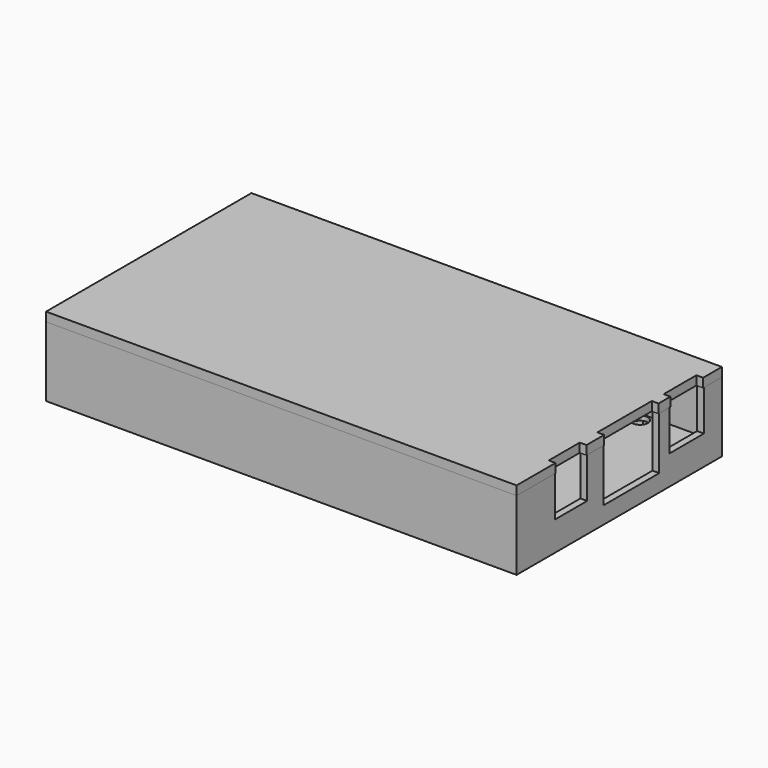
from build123d import *

# Parameters (mm, degrees)
F0_W     = 16
F0_H     = 16
F0_W_2   = 22
F0_H_2   = 1
F0_R     = 1.75
F1_DEPTH = 1
F2_DEPTH = 2
F0_W_3   = 1.5
F0_H_3   = 3.5
F0_H_4   = 2.9
F0_H_5   = 4.5
F3_DEPTH = 13
F0_H_6   = 9.5
F0_H_7   = 9
F4_DEPTH = 4
F0_H_8   = 3
F0_H_9   = 8
F5_DEPTH = 1.3
F6_DEPTH = 2.5
F8_DEPTH = 2


with BuildPart() as f1:
    # F0 (on Top) → F1 (new body)
    with BuildSketch(Plane.XY):
        Polygon((51.2338503599, 14.5706428699), (51.2338503599, 18.0706428699), (39.8364565174, 18.0706428699), (40.9911570558, 16.0706428699), (39.1725037079, 12.9206428699), (35.535197012, 12.9206428699), (33.716543664, 16.0706428699), (34.8712442024, 18.0706428699), (-44.0535434826, 18.0706428699), (-42.8988429442, 16.0706428699), (-44.7174962921, 12.9206428699), (-48.354802988, 12.9206428699), (-50.173456336, 16.0706428699), (-49.0187557976, 18.0706428699), (-50.2661496401, 18.0706428699), (-50.2661496401, -35.9293571301), (-42.7487557976, -35.9293571301), (-43.903456336, -33.9293571301), (-42.084802988, -30.7793571301), (-38.4474962921, -30.7793571301), (-36.6288429442, -33.9293571301), (32.596543664, -33.9293571301), (34.415197012, -30.7793571301), (38.0525037079, -30.7793571301), (39.8711570558, -33.9293571301), (51.2338503599, -33.9293571301), (51.2338503599, -26.8293571301), (51.2338503599, -17.8293571301), (51.2338503599, -13.3293571301), (51.2338503599, -8.8293571301), (51.2338503599, -0.8293571301), (51.2338503599, 2.1706428699), (51.2338503599, 5.0706428699), align=None)
        with Locations((22.7338503599, -17.6293571301)):
            Rectangle(F0_W, F0_H, mode=Mode.SUBTRACT)
        Polygon((46.9291284567, -29.4293571301), (-42.2661496401, -29.4293571301), (-42.2661496401, 10.5706428699), (0.9291284567, 10.5706428699), (0.9291284567, 9.5706428699), (-41.2661496401, 9.5706428699), (-41.2661496401, -28.4293571301), (46.9291284567, -28.4293571301), align=None, mode=Mode.SUBTRACT)
        with Locations((16.9291283151, 10.0706428699)):
            Rectangle(F0_W_2, F0_H_2, mode=Mode.SUBTRACT)
        Polygon((-42.8988429442, 16.0706428699), (-44.0535434826, 18.0706428699), (-49.0187557976, 18.0706428699), (-50.173456336, 16.0706428699), (-48.354802988, 12.9206428699), (-44.7174962921, 12.9206428699), align=None)
        with Locations((-46.5361496401, 16.0706428699)):
            Circle(F0_R, mode=Mode.SUBTRACT)
        Polygon((40.9911570558, 16.0706428699), (39.8364565174, 18.0706428699), (34.8712442024, 18.0706428699), (33.716543664, 16.0706428699), (35.535197012, 12.9206428699), (39.1725037079, 12.9206428699), align=None)
        with Locations((37.3538503599, 16.0706428699)):
            Circle(F0_R, mode=Mode.SUBTRACT)
        with BuildLine():
            Line((38.7164565174, -35.9293571301), (39.8711570558, -33.9293571301))
            Line((39.8711570558, -33.9293571301), (37.9838503599, -33.9293571301))
            ThreePointArc((37.9838503599, -33.9293571301), (36.2338503599, -35.6793571301), (34.4838503599, -33.9293571301))
            Line((34.4838503599, -33.9293571301), (32.596543664, -33.9293571301))
            Line((32.596543664, -33.9293571301), (33.7512442024, -35.9293571301))
            Line((33.7512442024, -35.9293571301), (38.7164565174, -35.9293571301))
        make_face()
        with BuildLine():
            Line((37.9838503599, -33.9293571301), (39.8711570558, -33.9293571301))
            Line((39.8711570558, -33.9293571301), (38.0525037079, -30.7793571301))
            Line((38.0525037079, -30.7793571301), (34.415197012, -30.7793571301))
            Line((34.415197012, -30.7793571301), (32.596543664, -33.9293571301))
            Line((32.596543664, -33.9293571301), (34.4838503599, -33.9293571301))
            ThreePointArc((34.4838503599, -33.9293571301), (36.2338503599, -32.1793571301), (37.9838503599, -33.9293571301))
        make_face()
        with BuildLine():
            Line((-42.7487557976, -35.9293571301), (-37.7835434826, -35.9293571301))
            Line((-37.7835434826, -35.9293571301), (-36.6288429442, -33.9293571301))
            Line((-36.6288429442, -33.9293571301), (-38.5161496401, -33.9293571301))
            ThreePointArc((-38.5161496401, -33.9293571301), (-40.2661496401, -35.6793571301), (-42.0161496401, -33.9293571301))
            Line((-42.0161496401, -33.9293571301), (-43.903456336, -33.9293571301))
            Line((-43.903456336, -33.9293571301), (-42.7487557976, -35.9293571301))
        make_face()
        with BuildLine():
            Line((-38.5161496401, -33.9293571301), (-36.6288429442, -33.9293571301))
            Line((-36.6288429442, -33.9293571301), (-38.4474962921, -30.7793571301))
            Line((-38.4474962921, -30.7793571301), (-42.084802988, -30.7793571301))
            Line((-42.084802988, -30.7793571301), (-43.903456336, -33.9293571301))
            Line((-43.903456336, -33.9293571301), (-42.0161496401, -33.9293571301))
            ThreePointArc((-42.0161496401, -33.9293571301), (-40.2661496401, -32.1793571301), (-38.5161496401, -33.9293571301))
        make_face()
        Polygon((51.2338503599, 14.5706428699), (51.2338503599, 18.0706428699), (39.8364565174, 18.0706428699), (40.9911570558, 16.0706428699), (39.1725037079, 12.9206428699), (35.535197012, 12.9206428699), (33.716543664, 16.0706428699), (34.8712442024, 18.0706428699), (-44.0535434826, 18.0706428699), (-42.8988429442, 16.0706428699), (-44.7174962921, 12.9206428699), (-48.354802988, 12.9206428699), (-50.173456336, 16.0706428699), (-49.0187557976, 18.0706428699), (-50.2661496401, 18.0706428699), (-50.2661496401, -35.9293571301), (-42.7487557976, -35.9293571301), (-43.903456336, -33.9293571301), (-42.084802988, -30.7793571301), (-38.4474962921, -30.7793571301), (-36.6288429442, -33.9293571301), (32.596543664, -33.9293571301), (34.415197012, -30.7793571301), (38.0525037079, -30.7793571301), (39.8711570558, -33.9293571301), (51.2338503599, -33.9293571301), (51.2338503599, -26.8293571301), (51.2338503599, -17.8293571301), (51.2338503599, -13.3293571301), (51.2338503599, -8.8293571301), (51.2338503599, -0.8293571301), (51.2338503599, 2.1706428699), (51.2338503599, 5.0706428699), align=None)
        with Locations((22.7338503599, -17.6293571301)):
            Rectangle(F0_W, F0_H, mode=Mode.SUBTRACT)
        Polygon((46.9291284567, -29.4293571301), (-42.2661496401, -29.4293571301), (-42.2661496401, 10.5706428699), (0.9291284567, 10.5706428699), (0.9291284567, 9.5706428699), (-41.2661496401, 9.5706428699), (-41.2661496401, -28.4293571301), (46.9291284567, -28.4293571301), align=None, mode=Mode.SUBTRACT)
        with Locations((16.9291283151, 10.0706428699)):
            Rectangle(F0_W_2, F0_H_2, mode=Mode.SUBTRACT)
        Polygon((-37.7835434826, -35.9293571301), (33.7512442024, -35.9293571301), (32.596543664, -33.9293571301), (-36.6288429442, -33.9293571301), align=None)
        Polygon((51.2338503599, -35.9293571301), (51.2338503599, -33.9293571301), (39.8711570558, -33.9293571301), (38.7164565174, -35.9293571301), align=None)
    extrude(amount=F1_DEPTH)

    # F0 (on Top) → F2 (join)
    with BuildSketch(Plane.XY):
        Polygon((-42.2661496401, 10.5706428699), (-42.2661496401, -29.4293571301), (46.9291284567, -29.4293571301), (46.9291284567, -28.4293571301), (-41.2661496401, -28.4293571301), (-41.2661496401, 9.5706428699), (0.9291284567, 9.5706428699), (0.9291284567, 10.5706428699), align=None)
        with Locations((16.9291283151, 10.0706428699)):
            Rectangle(F0_W_2, F0_H_2)
    extrude(amount=F2_DEPTH)

    # F0 (on Top) → F3 (join)
    with BuildSketch(Plane.XY):
        Polygon((52.7338503599, 19.5706428699), (-51.7661496401, 19.5706428699), (-51.7661496401, -37.4293571301), (52.7338503599, -37.4293571301), (52.7338503599, -26.8293571301), (51.2338503599, -26.8293571301), (51.2338503599, -33.9293571301), (51.2338503599, -35.9293571301), (38.7164565174, -35.9293571301), (38.0525037079, -37.0793571301), (34.415197012, -37.0793571301), (33.7512442024, -35.9293571301), (-37.7835434826, -35.9293571301), (-38.4474962921, -37.0793571301), (-42.084802988, -37.0793571301), (-42.7487557976, -35.9293571301), (-50.2661496401, -35.9293571301), (-50.2661496401, 18.0706428699), (-49.0187557976, 18.0706428699), (-48.354802988, 19.2206428699), (-44.7174962921, 19.2206428699), (-44.0535434826, 18.0706428699), (34.8712442024, 18.0706428699), (35.535197012, 19.2206428699), (39.1725037079, 19.2206428699), (39.8364565174, 18.0706428699), (51.2338503599, 18.0706428699), (52.7338503599, 18.0706428699), align=None)
        with Locations((51.9838503599, 16.3206428699)):
            Rectangle(F0_W_3, F0_H_3)
        with Locations((51.9838503599, 3.6206428699)):
            Rectangle(F0_W_3, F0_H_4)
        with Locations((51.9838503599, -15.5793571301)):
            Rectangle(F0_W_3, F0_H_5)
        Polygon((38.0525037079, -37.0793571301), (38.7164565174, -35.9293571301), (33.7512442024, -35.9293571301), (34.415197012, -37.0793571301), align=None)
        Polygon((-38.4474962921, -37.0793571301), (-37.7835434826, -35.9293571301), (-42.7487557976, -35.9293571301), (-42.084802988, -37.0793571301), align=None)
        Polygon((34.8712442024, 18.0706428699), (39.8364565174, 18.0706428699), (39.1725037079, 19.2206428699), (35.535197012, 19.2206428699), align=None)
        Polygon((-49.0187557976, 18.0706428699), (-44.0535434826, 18.0706428699), (-44.7174962921, 19.2206428699), (-48.354802988, 19.2206428699), align=None)
    extrude(amount=F3_DEPTH)

    # F0 (on Top) → F4 (join)
    with BuildSketch(Plane.XY):
        with Locations((51.9838503599, 9.8206428699)):
            Rectangle(F0_W_3, F0_H_6)
        with Locations((51.9838503599, -22.3293571301)):
            Rectangle(F0_W_3, F0_H_7)
    extrude(amount=F4_DEPTH)

    # F0 (on Top) → F5 (join)
    with BuildSketch(Plane.XY):
        with Locations((51.9838503599, 0.6706428699)):
            Rectangle(F0_W_3, F0_H_8)
        with Locations((51.9838503599, -4.8293571301)):
            Rectangle(F0_W_3, F0_H_9)
        with Locations((51.9838503599, -11.0793571301)):
            Rectangle(F0_W_3, F0_H_5)
    extrude(amount=F5_DEPTH)

    # F0 (on Top) → F6 (join)
    with BuildSketch(Plane.XY):
        Polygon((52.7338503599, 19.5706428699), (-51.7661496401, 19.5706428699), (-51.7661496401, -37.4293571301), (52.7338503599, -37.4293571301), (52.7338503599, -26.8293571301), (51.2338503599, -26.8293571301), (51.2338503599, -33.9293571301), (51.2338503599, -35.9293571301), (38.7164565174, -35.9293571301), (38.0525037079, -37.0793571301), (34.415197012, -37.0793571301), (33.7512442024, -35.9293571301), (-37.7835434826, -35.9293571301), (-38.4474962921, -37.0793571301), (-42.084802988, -37.0793571301), (-42.7487557976, -35.9293571301), (-50.2661496401, -35.9293571301), (-50.2661496401, 18.0706428699), (-49.0187557976, 18.0706428699), (-48.354802988, 19.2206428699), (-44.7174962921, 19.2206428699), (-44.0535434826, 18.0706428699), (34.8712442024, 18.0706428699), (35.535197012, 19.2206428699), (39.1725037079, 19.2206428699), (39.8364565174, 18.0706428699), (51.2338503599, 18.0706428699), (52.7338503599, 18.0706428699), align=None)
        with Locations((51.9838503599, 16.3206428699)):
            Rectangle(F0_W_3, F0_H_3)
        with Locations((51.9838503599, 9.8206428699)):
            Rectangle(F0_W_3, F0_H_6)
        with Locations((51.9838503599, 3.6206428699)):
            Rectangle(F0_W_3, F0_H_4)
        with Locations((51.9838503599, 0.6706428699)):
            Rectangle(F0_W_3, F0_H_8)
        with Locations((51.9838503599, -4.8293571301)):
            Rectangle(F0_W_3, F0_H_9)
        with Locations((51.9838503599, -11.0793571301)):
            Rectangle(F0_W_3, F0_H_5)
        with Locations((51.9838503599, -15.5793571301)):
            Rectangle(F0_W_3, F0_H_5)
        with Locations((51.9838503599, -22.3293571301)):
            Rectangle(F0_W_3, F0_H_7)
        Polygon((51.2338503599, -35.9293571301), (51.2338503599, -33.9293571301), (39.8711570558, -33.9293571301), (38.7164565174, -35.9293571301), align=None)
        Polygon((-37.7835434826, -35.9293571301), (33.7512442024, -35.9293571301), (32.596543664, -33.9293571301), (-36.6288429442, -33.9293571301), align=None)
        Polygon((51.2338503599, 14.5706428699), (51.2338503599, 18.0706428699), (39.8364565174, 18.0706428699), (40.9911570558, 16.0706428699), (39.1725037079, 12.9206428699), (35.535197012, 12.9206428699), (33.716543664, 16.0706428699), (34.8712442024, 18.0706428699), (-44.0535434826, 18.0706428699), (-42.8988429442, 16.0706428699), (-44.7174962921, 12.9206428699), (-48.354802988, 12.9206428699), (-50.173456336, 16.0706428699), (-49.0187557976, 18.0706428699), (-50.2661496401, 18.0706428699), (-50.2661496401, -35.9293571301), (-42.7487557976, -35.9293571301), (-43.903456336, -33.9293571301), (-42.084802988, -30.7793571301), (-38.4474962921, -30.7793571301), (-36.6288429442, -33.9293571301), (32.596543664, -33.9293571301), (34.415197012, -30.7793571301), (38.0525037079, -30.7793571301), (39.8711570558, -33.9293571301), (51.2338503599, -33.9293571301), (51.2338503599, -26.8293571301), (51.2338503599, -17.8293571301), (51.2338503599, -13.3293571301), (51.2338503599, -8.8293571301), (51.2338503599, -0.8293571301), (51.2338503599, 2.1706428699), (51.2338503599, 5.0706428699), align=None)
        with Locations((22.7338503599, -17.6293571301)):
            Rectangle(F0_W, F0_H, mode=Mode.SUBTRACT)
        Polygon((46.9291284567, -29.4293571301), (-42.2661496401, -29.4293571301), (-42.2661496401, 10.5706428699), (0.9291284567, 10.5706428699), (0.9291284567, 9.5706428699), (-41.2661496401, 9.5706428699), (-41.2661496401, -28.4293571301), (46.9291284567, -28.4293571301), align=None, mode=Mode.SUBTRACT)
        with Locations((16.9291283151, 10.0706428699)):
            Rectangle(F0_W_2, F0_H_2, mode=Mode.SUBTRACT)
        Polygon((51.2338503599, 14.5706428699), (51.2338503599, 18.0706428699), (39.8364565174, 18.0706428699), (40.9911570558, 16.0706428699), (39.1725037079, 12.9206428699), (35.535197012, 12.9206428699), (33.716543664, 16.0706428699), (34.8712442024, 18.0706428699), (-44.0535434826, 18.0706428699), (-42.8988429442, 16.0706428699), (-44.7174962921, 12.9206428699), (-48.354802988, 12.9206428699), (-50.173456336, 16.0706428699), (-49.0187557976, 18.0706428699), (-50.2661496401, 18.0706428699), (-50.2661496401, -35.9293571301), (-42.7487557976, -35.9293571301), (-43.903456336, -33.9293571301), (-42.084802988, -30.7793571301), (-38.4474962921, -30.7793571301), (-36.6288429442, -33.9293571301), (32.596543664, -33.9293571301), (34.415197012, -30.7793571301), (38.0525037079, -30.7793571301), (39.8711570558, -33.9293571301), (51.2338503599, -33.9293571301), (51.2338503599, -26.8293571301), (51.2338503599, -17.8293571301), (51.2338503599, -13.3293571301), (51.2338503599, -8.8293571301), (51.2338503599, -0.8293571301), (51.2338503599, 2.1706428699), (51.2338503599, 5.0706428699), align=None)
        with Locations((22.7338503599, -17.6293571301)):
            Rectangle(F0_W, F0_H, mode=Mode.SUBTRACT)
        Polygon((46.9291284567, -29.4293571301), (-42.2661496401, -29.4293571301), (-42.2661496401, 10.5706428699), (0.9291284567, 10.5706428699), (0.9291284567, 9.5706428699), (-41.2661496401, 9.5706428699), (-41.2661496401, -28.4293571301), (46.9291284567, -28.4293571301), align=None, mode=Mode.SUBTRACT)
        with Locations((16.9291283151, 10.0706428699)):
            Rectangle(F0_W_2, F0_H_2, mode=Mode.SUBTRACT)
        with Locations((16.9291283151, 10.0706428699)):
            Rectangle(F0_W_2, F0_H_2)
        Polygon((-42.2661496401, 10.5706428699), (-42.2661496401, -29.4293571301), (46.9291284567, -29.4293571301), (46.9291284567, -28.4293571301), (-41.2661496401, -28.4293571301), (-41.2661496401, 9.5706428699), (0.9291284567, 9.5706428699), (0.9291284567, 10.5706428699), align=None)
    extrude(amount=-F6_DEPTH)


with BuildPart() as f8:
    # F7 (on face) → F8 (new body)
    with BuildSketch(Plane.XY.offset(13)):
        Polygon((52.7338503599, 14.3706428699), (52.7338503599, 14.5706428699), (51.2338503599, 14.5706428699), (51.2338503599, 18.0706428699), (-50.2661496401, 18.0706428699), (-50.2661496401, -35.9293571301), (51.2338503599, -35.9293571301), (51.2338503599, -26.8293571301), (52.7338503599, -26.8293571301), (52.7338503599, -26.6293571301), (51.2338503599, -26.6293571301), (51.2338503599, -18.0293571301), (52.7338503599, -18.0293571301), (52.7338503599, -13.1293571301), (51.2338503599, -13.1293571301), (51.2338503599, 1.9706428699), (52.7338503599, 1.9706428699), (52.7338503599, 5.2706428699), (51.2338503599, 5.2706428699), (51.2338503599, 14.3706428699), align=None)
        Polygon((52.7338503599, 19.5706428699), (-51.7661496401, 19.5706428699), (-51.7661496401, -37.4293571301), (52.7338503599, -37.4293571301), (52.7338503599, -26.8293571301), (51.2338503599, -26.8293571301), (51.2338503599, -35.9293571301), (-50.2661496401, -35.9293571301), (-50.2661496401, 18.0706428699), (51.2338503599, 18.0706428699), (51.2338503599, 14.5706428699), (52.7338503599, 14.5706428699), align=None)
    extrude(amount=F8_DEPTH)


solid = Compound([f1.part, f8.part])
